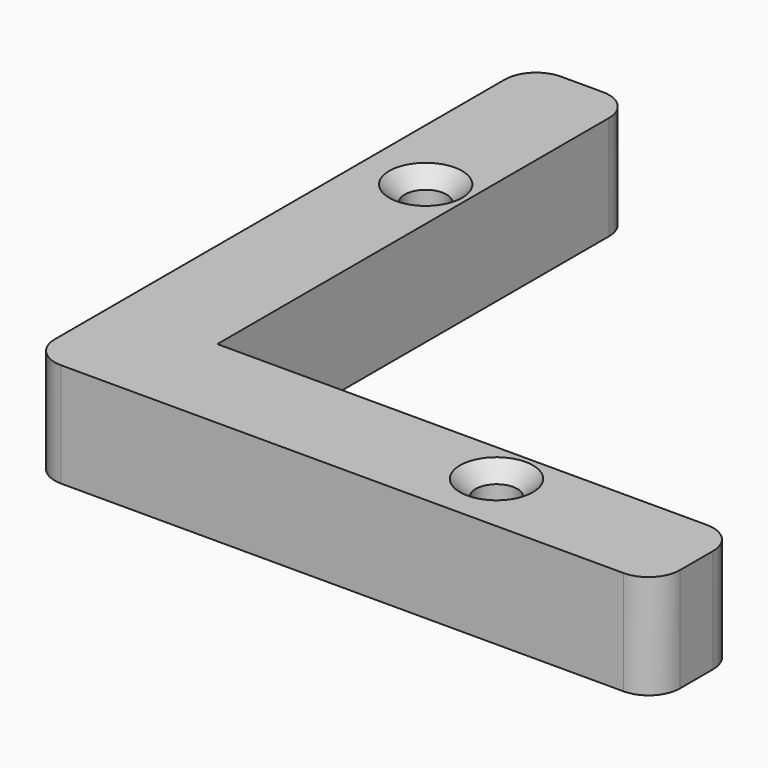
from build123d import *

# Parameters (mm, degrees)
F0_R     = 2
F1_DEPTH = 10
F2_R     = 3
F3_SIZE  = 1.5


with BuildPart() as f1:
    # F0 (on Top) → F1 (new body)
    with BuildSketch(Plane.XY):
        Polygon((0, 60), (0, 0), (60, 0), (60, 10), (10, 10), (10, 60), align=None)
        with Locations((40, 6)):
            Circle(F0_R, mode=Mode.SUBTRACT)
        with Locations((6, 40)):
            Circle(F0_R, mode=Mode.SUBTRACT)
    extrude(amount=F1_DEPTH)

    # F2
    f2_edges = [f1.edges().sort_by_distance(p)[0] for p in [
        (0, 0, 5),
        (60, 0, 5),
        (60, 10, 5),
        (10, 60, 5),
        (0, 60, 5),
    ]]
    fillet(f2_edges, radius=F2_R)

    # F3
    f3_edges = [f1.edges().sort_by_distance(p)[0] for p in [
        (4, 40, 10),
        (38, 6, 10),
    ]]
    chamfer(f3_edges, length=F3_SIZE)


solid = f1.part
